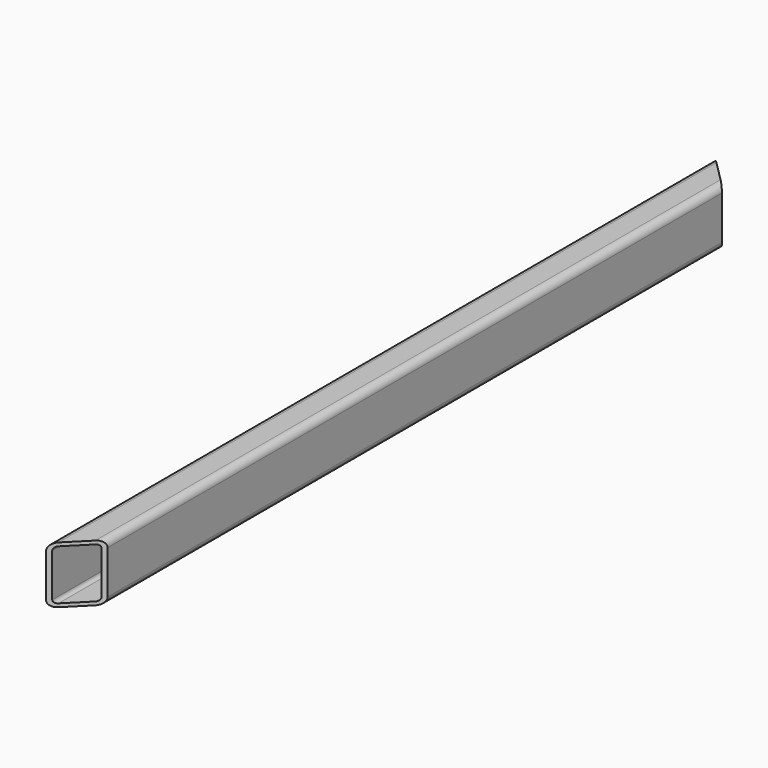
from build123d import *

# Parameters (mm, degrees)
F1_DEPTH = 366.5
F3_DEPTH = 50


with BuildPart() as f1:
    # F0 (on Front) → F1 (new body, symmetric)
    with BuildSketch(Plane.XZ):
        with BuildLine():
            ThreePointArc((15, 19), (13.2426406871, 23.2426406871), (9, 25))
            Line((9, 25), (-9, 25))
            ThreePointArc((-9, 25), (-13.2426406871, 23.2426406871), (-15, 19))
            Line((-15, 19), (-15, -19))
            ThreePointArc((-15, -19), (-13.2426406871, -23.2426406871), (-9, -25))
            Line((-9, -25), (9, -25))
            ThreePointArc((9, -25), (13.2426406871, -23.2426406871), (15, -19))
            Line((15, -19), (15, 19))
        make_face()
        with BuildLine():
            Line((-9, 22), (9, 22))
            ThreePointArc((9, 22), (11.1213203436, 21.1213203436), (12, 19))
            Line((12, 19), (12, -19))
            ThreePointArc((12, -19), (11.1213203436, -21.1213203436), (9, -22))
            Line((9, -22), (-9, -22))
            ThreePointArc((-9, -22), (-11.1213203436, -21.1213203436), (-12, -19))
            Line((-12, -19), (-12, 19))
            ThreePointArc((-12, 19), (-11.1213203436, 21.1213203436), (-9, 22))
        make_face(mode=Mode.SUBTRACT)
    extrude(amount=F1_DEPTH, both=True)

    # F2 (on face) → F3 (cut, through all)
    with BuildSketch(Plane.XY.offset(25)):
        Polygon((-9, -366.5), (-9, -360.5), (-15, -366.5), align=None)
        Polygon((9, -366.5), (9, -342.5), (-9, -360.5), (-9, -366.5), align=None)
        Polygon((15, -336.5), (9, -342.5), (9, -366.5), (15, -366.5), align=None)
        Polygon((-15, 366.5), (-9, 360.5), (-9, 366.5), align=None)
        Polygon((-9, 360.5), (9, 342.5), (9, 366.5), (-9, 366.5), align=None)
        Polygon((9, 342.5), (15, 336.5), (15, 366.5), (9, 366.5), align=None)
    extrude(amount=-F3_DEPTH, mode=Mode.SUBTRACT)


solid = f1.part
